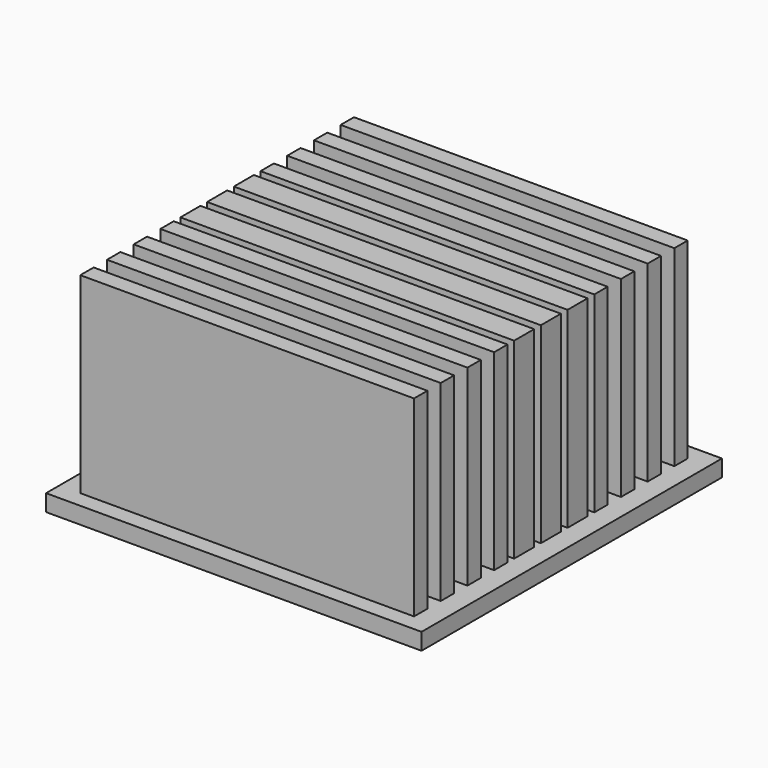
from build123d import *

# Parameters (mm, degrees)
F0_W     = 45
F0_H     = 45
F1_DEPTH = 25
F2_W     = 45
F2_H     = 45
F2_W_2   = 40
F2_H_2   = 2
F3_DEPTH = 23


with BuildPart() as f1:
    # F0 (on Top) → F1 (new body)
    with BuildSketch(Plane.XY):
        Rectangle(F0_W, F0_H)
    extrude(amount=F1_DEPTH)

    # F2 (on face) → F3 (cut)
    with BuildSketch(Plane.XY.offset(25)):
        Rectangle(F2_W, F2_H)
        with Locations((0, -19.5)):
            Rectangle(F2_W_2, F2_H_2, mode=Mode.SUBTRACT)
        with Locations((0, -15.5)):
            Rectangle(F2_W_2, F2_H_2, mode=Mode.SUBTRACT)
        with Locations((0, -11.5)):
            Rectangle(F2_W_2, F2_H_2, mode=Mode.SUBTRACT)
        with Locations((0, -7.5)):
            Rectangle(F2_W_2, F2_H_2, mode=Mode.SUBTRACT)
        Polygon((-20, -4.5), (-20, -3.5), (-20, -2.5), (20, -2.5), (20, -3.5), (20, -4.5), (20, -5.5), (-20, -5.5), align=None, mode=Mode.SUBTRACT)
        Polygon((-20, -0.5), (-20, 0.5), (-20, 1.5), (20, 1.5), (20, 0.5), (20, -0.5), (20, -1.5), (-20, -1.5), align=None, mode=Mode.SUBTRACT)
        Polygon((-20, 3.5), (-20, 4.5), (-20, 5.5), (20, 5.5), (20, 4.5), (20, 3.5), (20, 2.5), (-20, 2.5), align=None, mode=Mode.SUBTRACT)
        with Locations((0, 7.5)):
            Rectangle(F2_W_2, F2_H_2, mode=Mode.SUBTRACT)
        with Locations((0, 11.5)):
            Rectangle(F2_W_2, F2_H_2, mode=Mode.SUBTRACT)
        with Locations((0, 15.5)):
            Rectangle(F2_W_2, F2_H_2, mode=Mode.SUBTRACT)
        with Locations((0, 19.5)):
            Rectangle(F2_W_2, F2_H_2, mode=Mode.SUBTRACT)
    extrude(amount=-F3_DEPTH, mode=Mode.SUBTRACT)


solid = f1.part
